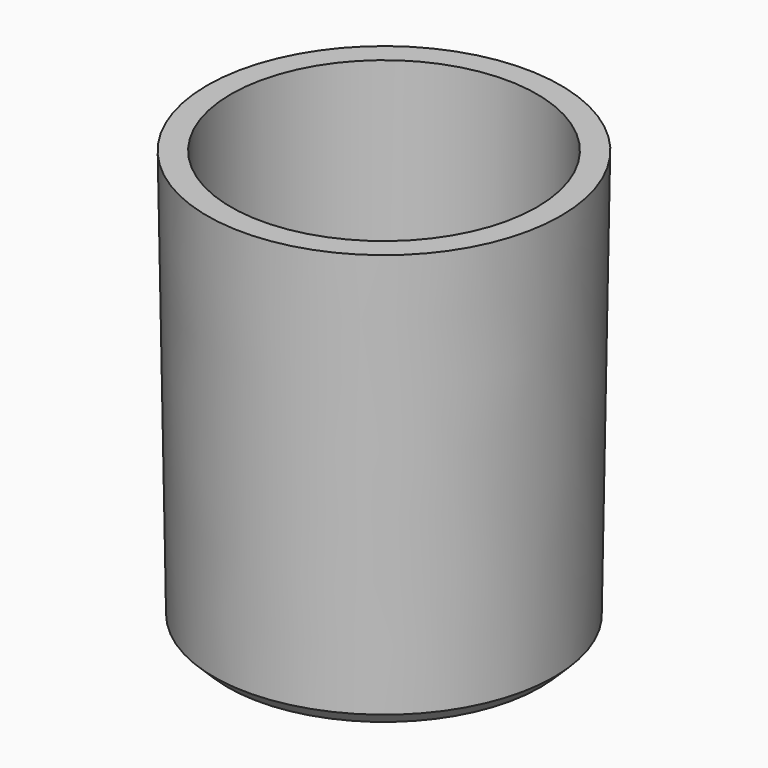
from build123d import *

# Parameters (mm, degrees)
SKETCH001_R  = 13
SKETCH_R     = 12.5
SKETCH003_R  = 11.25
SKETCH002_R  = 11.25
CHAMFER_SIZE = 1


with BuildPart() as part:
    # Sketch001 (on DatumPlane) → AdditiveLoft section 0
    with BuildSketch(Plane.XY.offset(31)):
        Circle(SKETCH001_R)
    # Sketch → AdditiveLoft section 1
    with BuildSketch(Plane.XY):
        Circle(SKETCH_R)
    loft()

    # Sketch003 (on DatumPlane) → SubtractiveLoft section 0
    with BuildSketch(Plane.XY.offset(31)):
        Circle(SKETCH003_R)
    # Sketch002 → SubtractiveLoft section 1
    with BuildSketch(Plane.XY):
        Circle(SKETCH002_R)
    loft(mode=Mode.SUBTRACT)

    # Chamfer
    chamfer_edges = [part.edges().sort_by_distance(p)[0] for p in [
        (-12.5, 0, 0),
    ]]
    chamfer(chamfer_edges, length=CHAMFER_SIZE)


solid = part.part
